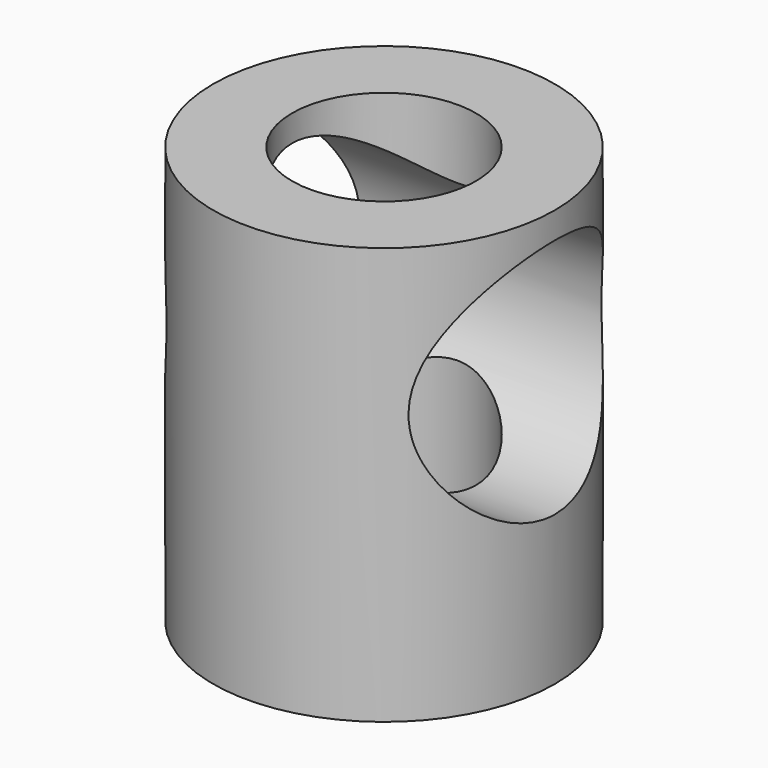
from build123d import *

# Parameters (mm, degrees)
F0_R     = 7.375
F1_DEPTH = 18
F4_R     = 5.207
F5_DEPTH = 14.751
F6_D     = 7.9375


with BuildPart() as f1:
    # F0 (on Top) → F1 (new body)
    with BuildSketch(Plane.XY):
        Circle(F0_R)
    extrude(amount=F1_DEPTH)

    # F4 (on plane+point) → F5 (cut, through all)
    with BuildSketch(Plane.YZ.offset(-7.375)):
        with Locations((0, 11.65)):
            Circle(F4_R)
    extrude(amount=F5_DEPTH, mode=Mode.SUBTRACT)

    # F6 (through all)
    with Locations(Plane.XY.offset(18)):
        with Locations((0, 0)):
            Hole(F6_D / 2)


solid = f1.part
